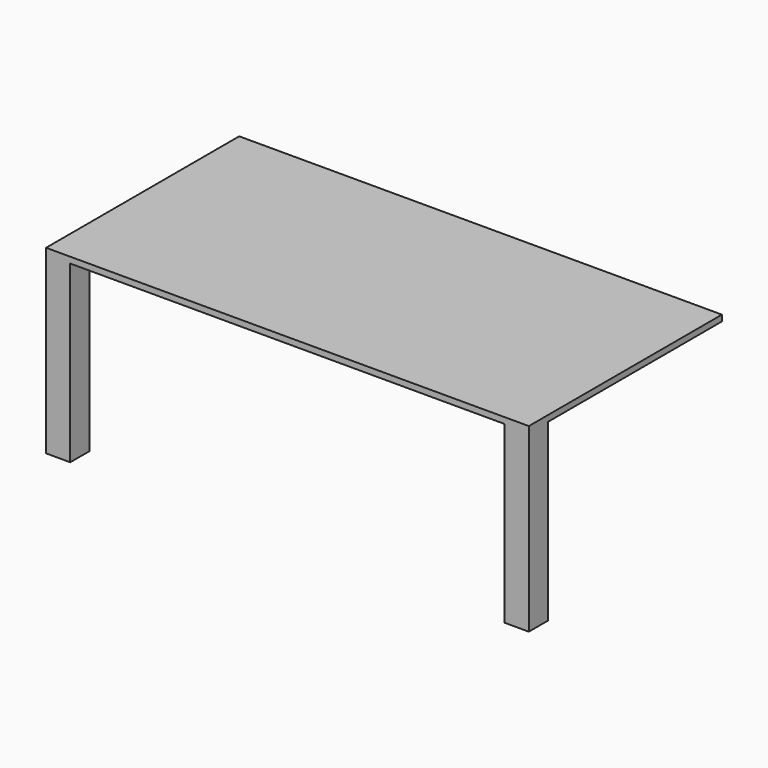
from build123d import *

# Parameters (mm, degrees)
F0_W     = 2000
F0_H     = 1000
F1_DEPTH = 25
F2_W     = 100
F2_H     = 100
F3_DEPTH = 725


with BuildPart() as f1:
    # F0 (on Top) → F1 (new body)
    with BuildSketch(Plane.XY):
        Rectangle(F0_W, F0_H)
    extrude(amount=F1_DEPTH)

    # F2 (on face) → F3 (join)
    with BuildSketch(Plane(origin=(0, 0, 0), x_dir=(1, 0, 0), z_dir=(0, 0, -1))):
        with Locations((-950, 450)):
            Rectangle(F2_W, F2_H)
        with Locations((950, 450)):
            Rectangle(F2_W, F2_H)
    extrude(amount=F3_DEPTH)


solid = f1.part
